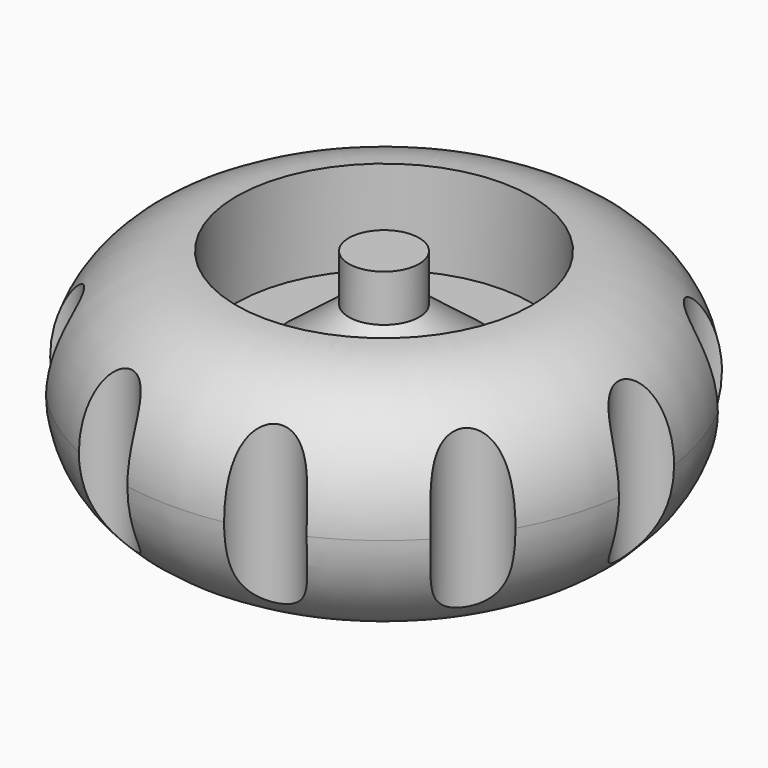
from build123d import *

# Parameters (mm, degrees)
F2_R     = 1.5
F3_DEPTH = 10


with BuildPart() as f1:
    # F0 (on Front) → F1 (revolve)
    with BuildSketch(Plane.XZ):
        with BuildLine():
            Line((-6.3, 0), (0, 0))
            Line((0, 0), (0, 6))
            Line((0, 6), (0, 10))
            Line((0, 10), (-1.5, 10))
            Line((-1.5, 10), (-1.5, 8))
            Line((-1.5, 8), (-4.1, 6))
            Line((-4.1, 6), (-6.3, 6))
            Line((-6.3, 6), (-6.3, 10))
            ThreePointArc((-6.3, 10), (-9.835534, 8.535534), (-11.3, 5))
            ThreePointArc((-11.3, 5), (-9.835534, 1.464466), (-6.3, 0))
        make_face()
    revolve(axis=Axis((0, 0, 3), (0, 0, -1)))

    # F2 (on face) → F3 (cut)
    with BuildSketch(Plane(origin=(0, 0, 0), x_dir=(1, 0, 0), z_dir=(0, 0, -1))):
        with Locations((9.303695, 6.75953)):
            Circle(F2_R)
        with Locations((11.5, 0)):
            Circle(F2_R)
        with Locations((9.303695, -6.75953)):
            Circle(F2_R)
        with Locations((3.553695, -10.93715)):
            Circle(F2_R)
        with Locations((-3.553695, -10.93715)):
            Circle(F2_R)
        with Locations((-9.303695, -6.75953)):
            Circle(F2_R)
        with Locations((-11.5, 0)):
            Circle(F2_R)
        with Locations((-9.303695, 6.75953)):
            Circle(F2_R)
        with Locations((-3.553695, 10.93715)):
            Circle(F2_R)
        with Locations((3.553695, 10.93715)):
            Circle(F2_R)
    extrude(amount=-F3_DEPTH, mode=Mode.SUBTRACT)


solid = f1.part
